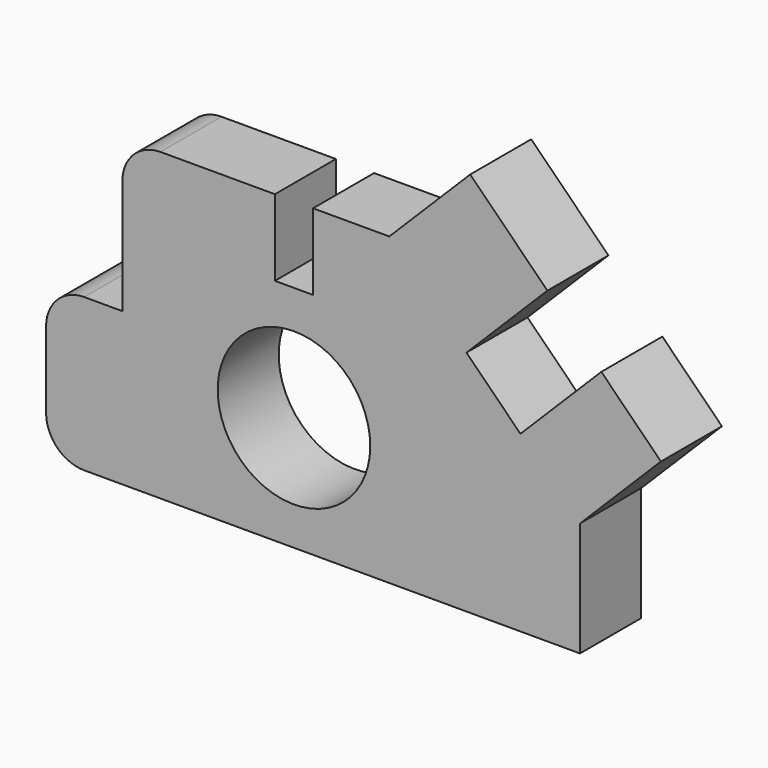
from build123d import *

# Parameters (mm, degrees)
F0_R     = 254
F1_DEPTH = 254


with BuildPart() as f1:
    # F0 (on Front) → F1 (new body)
    with BuildSketch(Plane.XZ):
        with BuildLine():
            ThreePointArc((0, 127), (37.197439, 37.197439), (127, 0))
            Line((127, 0), (1778, 0))
            Line((1778, 0), (1778, 381))
            Line((1778, 381), (2047.407684, 650.407684))
            Line((2047.407684, 650.407684), (1849.006713, 848.808654))
            Line((1849.006713, 848.808654), (1579.599029, 579.400971))
            Line((1579.599029, 579.400971), (1399.993907, 759.006093))
            Line((1399.993907, 759.006093), (1669.40159, 1028.413777))
            Line((1669.40159, 1028.413777), (1412.407684, 1285.407684))
            Line((1412.407684, 1285.407684), (1143, 1016))
            Line((1143, 1016), (889, 1016))
            Line((889, 1016), (889, 762))
            Line((889, 762), (762, 762))
            Line((762, 762), (762, 1016))
            Line((762, 1016), (381, 1016))
            ThreePointArc((381, 1016), (291.197439, 978.802561), (254, 889))
            Line((254, 889), (254, 508))
            Line((254, 508), (127, 508))
            ThreePointArc((127, 508), (37.197439, 470.802561), (0, 381))
            Line((0, 381), (0, 127))
        make_face()
        with Locations((825.5, 381)):
            Circle(F0_R, mode=Mode.SUBTRACT)
    extrude(amount=F1_DEPTH)


solid = f1.part
